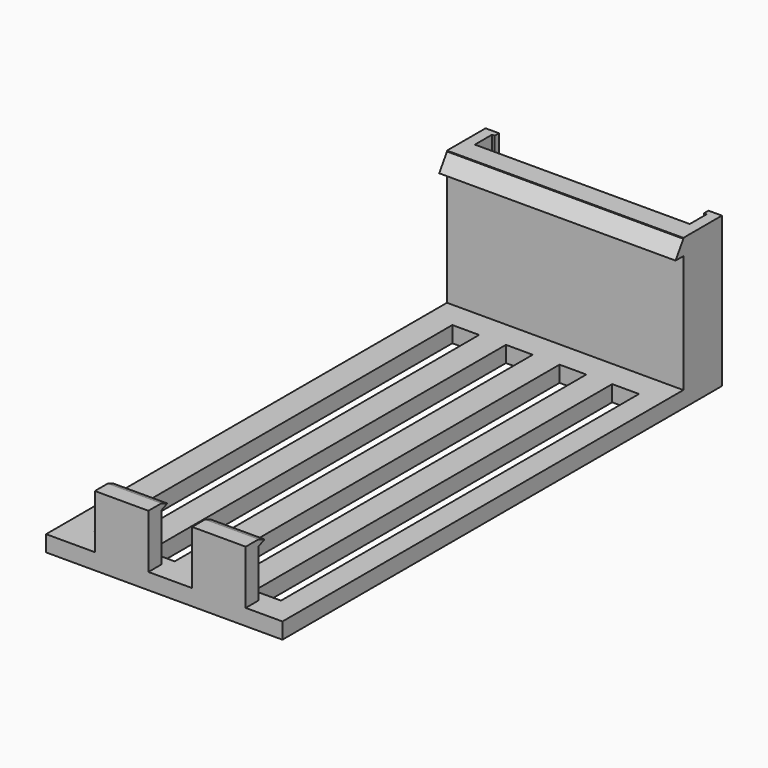
from build123d import *

# Parameters (mm, degrees)
PAD_DEPTH    = 28
SKETCH002_W  = 44.1
SKETCH002_H  = 3
PAD001_DEPTH = 93.5
PAD002_DEPTH = 5
PAD003_DEPTH = 5
PAD004_DEPTH = 44.1
SKETCH006_W  = 5
SKETCH006_H  = 83.5
POCKET_DEPTH = 5


with BuildPart() as part:
    # Sketch → Pad (new body)
    with BuildSketch(Plane.XY):
        Polygon((-4.997332, 9), (-2.497332, 9), (-2.497332, 8), (-2.997332, 8), (-2.997332, 4), (37.102668, 4), (37.102668, 8), (36.602668, 8), (36.602668, 9), (39.102668, 9), (39.102668, 0), (-4.997332, 0), (-4.997332, 4), align=None)
    extrude(amount=PAD_DEPTH)

    # Sketch002 (on Face11 of Pad) → Pad001 (join)
    with BuildSketch(Plane.XZ):
        with Locations((17.052668, 1.5)):
            Rectangle(SKETCH002_W, SKETCH002_H)
    extrude(amount=PAD001_DEPTH)

    # Sketch003 (on Face18 of Pad001) → Pad002 (join, symmetric)
    with BuildSketch(Plane.YZ.offset(9.102668)):
        Polygon((-93.5, 2.9), (-93.5, 13.04805), (-90.5, 13.04805), (-89.114181, 12.474025), (-90.5, 11.9), (-90.5, 2.9), align=None)
    extrude(amount=PAD002_DEPTH, both=True)

    # Sketch004 (on Face18 of Pad001) → Pad003 (join, symmetric)
    with BuildSketch(Plane.YZ.offset(27.252668)):
        Polygon((-93.5, 2.9), (-93.5, 13.04805), (-90.5, 13.04805), (-89.114181, 12.474025), (-90.5, 11.9), (-90.5, 2.9), align=None)
    extrude(amount=PAD003_DEPTH, both=True)

    # Sketch005 (on Face14 of Pad003) → Pad004 (join)
    with BuildSketch(Plane.YZ.offset(39.102668)):
        Polygon((0.1, 28), (-1.807951, 25), (0.1, 25), align=None)
    extrude(amount=-PAD004_DEPTH)

    # Sketch006 (on Face26 of Pad004) → Pocket (cut)
    with BuildSketch(Plane.XY.offset(3)):
        with Locations((32.328745, -46.75)):
            Rectangle(SKETCH006_W, SKETCH006_H)
        with Locations((2.502668, -46.75)):
            Rectangle(SKETCH006_W, SKETCH006_H)
        with Locations((12.502668, -46.75)):
            Rectangle(SKETCH006_W, SKETCH006_H)
        with Locations((22.502668, -46.75)):
            Rectangle(SKETCH006_W, SKETCH006_H)
    extrude(amount=-POCKET_DEPTH, mode=Mode.SUBTRACT)


solid = part.part
